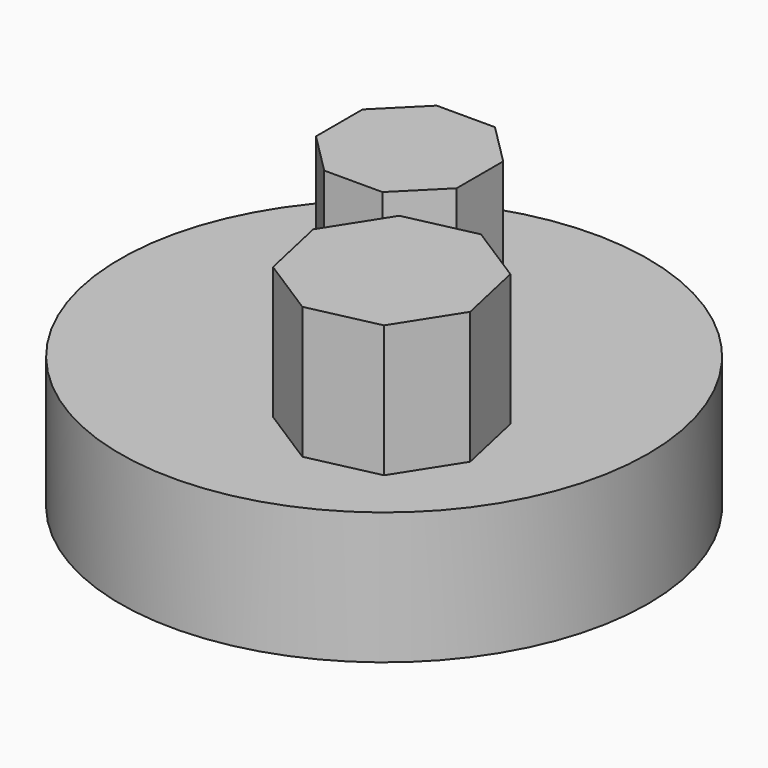
from build123d import *

# Parameters (mm, degrees)
F0_R     = 50
F1_DEPTH = 25
F3_DEPTH = 25


with BuildPart() as f1:
    # F0 (on Top) → F1 (new body)
    with BuildSketch(Plane.XY):
        Circle(F0_R)
    extrude(amount=F1_DEPTH)

    # F2 (on face) → F3 (join)
    with BuildSketch(Plane.XY.offset(25)):
        Polygon((3.619255, -0.923771), (-3.619255, -12.274176), (-0.711706, -25.418523), (10.638699, -32.657032), (23.783046, -29.749483), (31.021555, -18.399078), (28.114006, -5.254732), (16.763601, 1.983778), align=None)
        Polygon((-3.070575, 30.081054), (-14.102733, 30.081054), (-21.903647, 22.28014), (-21.903647, 11.247983), (-14.102733, 3.447069), (-3.070575, 3.447069), (4.730338, 11.247983), (4.730338, 22.28014), align=None)
    extrude(amount=F3_DEPTH)


solid = f1.part
